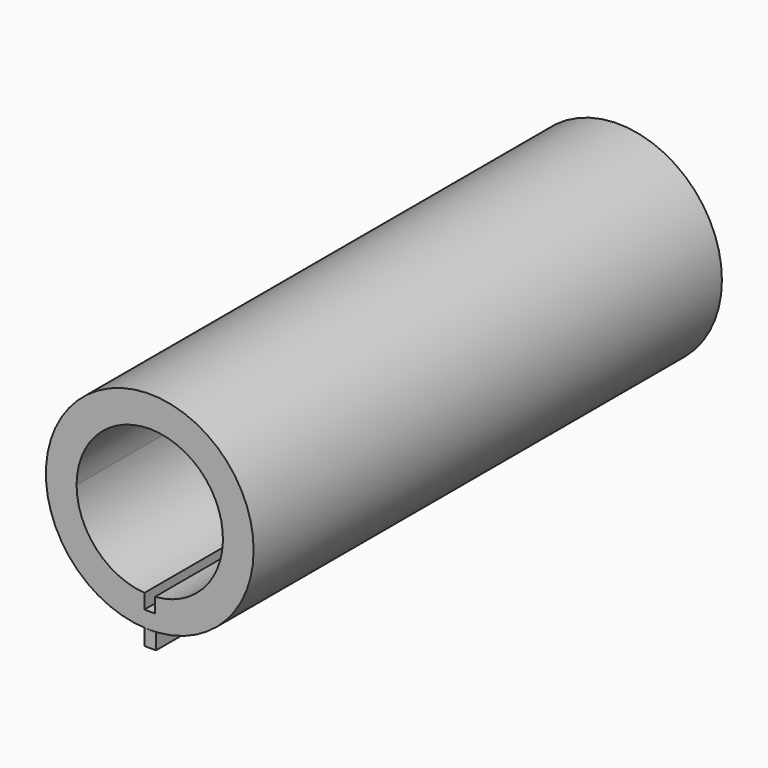
from build123d import *

# Parameters (mm, degrees)
F0_R      = 27.0435400324
F1_DEPTH  = 25.4
F3_D      = 38.1
F5_DEPTH  = 25.4
F6_DEPTH  = 127
F8_DEPTH  = 25.4
F9_DEPTH  = 101.6
F10_DEPTH = 25.4


with BuildPart() as f1:
    # F0 (on Front) → F1 (new body)
    with BuildSketch(Plane.XZ):
        with Locations((27.6412703097, 27.8783403337)):
            Circle(F0_R)
    extrude(amount=F1_DEPTH)

    # F3 (through all)
    with Locations(Plane.XZ.offset(25.4)):
        with Locations((27.6412703097, 27.8783403337)):
            Hole(F3_D / 2)

    # F4 (on face) → F5 (cut)
    with BuildSketch(Plane(origin=(0, 0, 0), x_dir=(-1, 0, 0), z_dir=(0, 1, 0))):
        with BuildLine():
            Line((-26.2493573993, 5.0403885543), (-26.2493573993, 8.8792593441))
            ThreePointArc((-26.2493573993, 8.8792593441), (-27.6329506683, 8.8283421504), (-29.0165878832, 8.8780508209))
            Line((-29.0165878832, 8.8780508209), (-29.0165878832, 5.0403885543))
            Line((-29.0165878832, 5.0403885543), (-26.2493573993, 5.0403885543))
        make_face()
    extrude(amount=-F5_DEPTH, mode=Mode.SUBTRACT)

    # F6 (add): a face of the model
    f6_faces = [f1.faces().sort_by_distance(p)[0] for p in [
        (1.362637099, -25.4, 27.8783403337),
    ]]
    extrude(f6_faces, amount=F6_DEPTH)


with BuildPart() as f8:
    # F7 (on face) → F8 (new body)
    with BuildSketch(Plane.XZ.offset(152.4)):
        with BuildLine():
            ThreePointArc((29.0331832201, 0.8706444687), (27.6412703097, 0.8348003013), (26.2493573993, 0.8706444687))
            Line((26.2493573993, 0.8706444687), (26.2493573993, -3.3151728567))
            Line((26.2493573993, -3.3151728567), (29.2821917683, -3.3151728567))
            Line((29.2821917683, -3.3151728567), (29.2821917683, 0.8706444687))
            Line((29.2821917683, 0.8706444687), (29.0331832201, 0.8706444687))
        make_face()
    extrude(amount=-F8_DEPTH)


with BuildPart() as f9:
    # F9 (new): a face of the model
    f9_faces = [f8.part.faces().sort_by_distance(p)[0] for p in [
        (27.766430524, -127, -1.2332149639),
    ]]
    extrude(f9_faces, amount=F9_DEPTH)


with BuildPart() as f10:
    # F10 (new): a face of the model
    f10_faces = [f9.part.faces().sort_by_distance(p)[0] for p in [
        (27.766430524, -25.4, -1.2332149639),
    ]]
    extrude(f10_faces, amount=F10_DEPTH)


solid = Compound([f1.part, f8.part, f9.part, f10.part])
